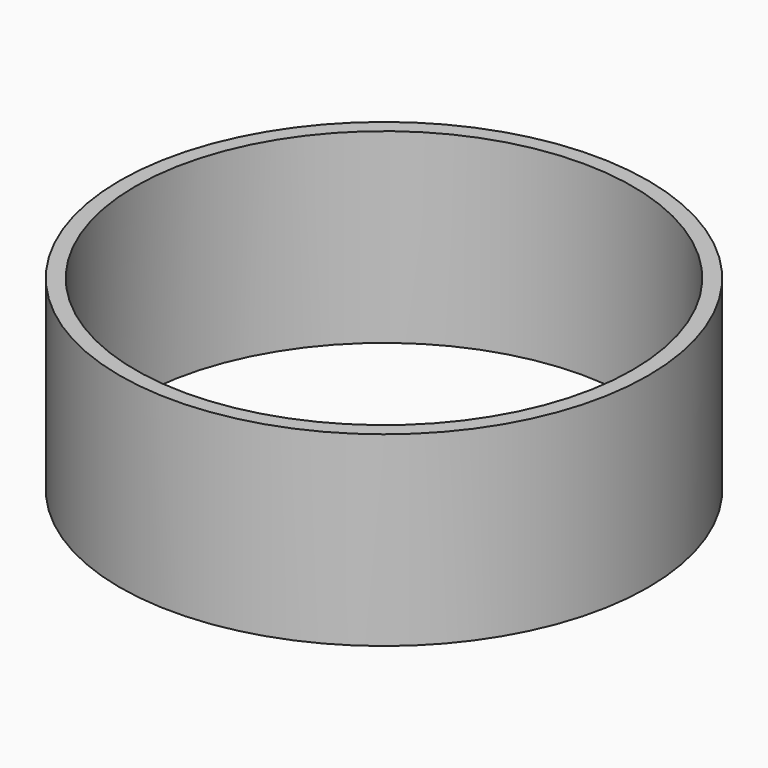
from build123d import *

# Parameters (mm, degrees)
F0_W = 42.5
F0_H = 30
F2_T = -2.5


with BuildPart() as f1:
    # F0 (on Front) → F1 (revolve)
    with BuildSketch(Plane.XZ):
        with Locations((-45.4800373316, 45)):
            Rectangle(F0_W, F0_H)
    revolve(axis=Axis((-24.2300373316, 0, 45), (0, 0, -1)))

    # F2
    f2_openings = [f1.faces().sort_by_distance(p)[0] for p in [
        (-24.230037, 0, 60),
        (-24.230037, 0, 30),
    ]]
    offset(amount=F2_T, openings=f2_openings)


solid = f1.part
